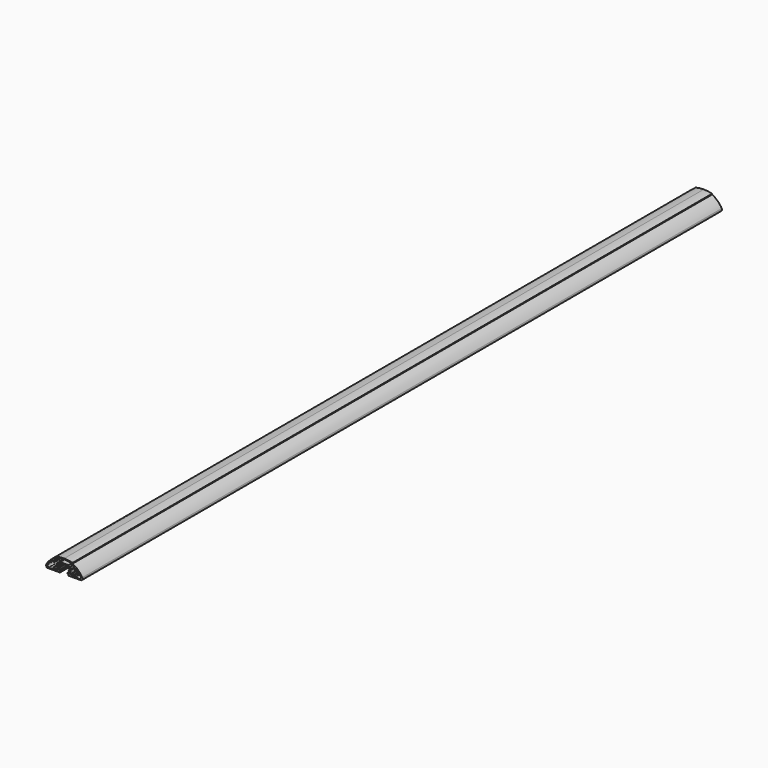
from build123d import *

# Parameters (mm, degrees)
F1_DEPTH = 1800


with BuildPart() as f1:
    # F0 (on Front) → F1 (new body)
    with BuildSketch(Plane.XZ):
        with BuildLine():
            Line((-11.9499590314, -0.9932657704), (-7.0635441756, -0.9932657704))
            Line((-7.0635441756, -0.9932657704), (-6.5061444542, 0.7506000693))
            Line((-6.5061444542, 0.7506000693), (-8.6929108068, 0.7506000693))
            Line((-8.6929108068, 0.7506000693), (-8.1542262873, 3.9006270817))
            Line((-8.1542262873, 3.9006270817), (0, 3.9006270817))
            Line((0, 3.9006270817), (0, 5.5371210328))
            Line((0, 5.5371210328), (-9.1837257915, 5.5371210328))
            Line((-9.1837257915, 5.5371210328), (-10.2753872215, 0.7506000693))
            Line((-10.2753872215, 0.7506000693), (-16.4274439918, 0.7506000693))
            Line((-16.4274439918, 0.7506000693), (-16.4274439918, -0.9932657704))
            Line((-16.4274439918, -0.9932657704), (-13.84259438, -0.9932657704))
            Line((-13.84259438, -0.9932657704), (-13.84259438, -6.8908426911))
            Line((-13.84259438, -6.8908426911), (-12.944600686, -6.8908426911))
            Line((-12.944600686, -6.8908426911), (-14.5703004673, -11.646294035))
            Line((-14.5703004673, -11.646294035), (-15.134039335, -11.646294035))
            Line((-15.134039335, -11.646294035), (-15.134039335, -9.3913376331))
            Line((-15.134039335, -9.3913376331), (-16.9987138361, -9.3913376331))
            Line((-16.9987138361, -9.3913376331), (-16.9987138361, -13.6410631239))
            Line((-16.9987138361, -13.6410631239), (-22.1590939909, -13.6410631239))
            Line((-22.1590939909, -13.6410631239), (-22.1590939909, -9.3913376331))
            Line((-22.1590939909, -9.3913376331), (-24.4574155658, -9.3913376331))
            Line((-24.4574155658, -9.3913376331), (-24.4574155658, -13.6410631239))
            Line((-24.4574155658, -13.6410631239), (-34.7348116338, -13.6410631239))
            ThreePointArc((-34.7348116338, -13.6410631239), (-37.092046473, -11.3274544107), (-37.1041148901, -8.0245472491))
            add(Edge.make_bspline(
                [(-37.1041148901, -8.0245472491), (-36.3946133782, -6.6936636739), (-34.5175154095, -3.9661265733), (-30.2363003623, 0.8604598858), (-27.2717215063, 3.4364306688), (-25.2775829285, 5.2396138199), (-24.8103346676, 5.583175458)],
                knots=[0, 0, 0, 0, 0.2581880021, 0.5557461622, 0.797961565, 1, 1, 1, 1], degree=3))
            Line((-24.8103346676, 5.583175458), (-24.8103346676, 1.2033570092))
            Line((-24.8103346676, 1.2033570092), (-22.1867793205, 1.2033570092))
            Line((-22.1867793205, 1.2033570092), (-22.1867793205, 7.1457230625))
            Line((-22.1867793205, 7.1457230625), (-16.8529403361, 7.1457230625))
            Line((-16.8529403361, 7.1457230625), (-16.8529403361, 11.3087186729))
            add(Edge.make_bspline(
                [(-16.8529403361, 11.3087186729), (-15.7352336494, 11.5777072863), (-13.5664877722, 12.0996402345), (-10.7072304288, 12.6865004894), (-6.1675118665, 13.1730848009), (-2.5798656461, 13.54062294), (-0.8032193119, 13.5784831385), (0, 13.5955996811)],
                knots=[0, 0, 0, 0, 0.1989990973, 0.3861285585, 0.6189174506, 0.8277131148, 1, 1, 1, 1], degree=3))
            Line((0, 13.5955996811), (0, 15.6303381391))
            add(Edge.make_bspline(
                [(-18.6959337443, 13.0852404982), (-17.6431082138, 13.3528213695), (-15.6442324786, 13.8616073537), (-13.1827009817, 14.3770899822), (-10.0425512675, 14.905789876), (-6.7898397517, 15.212769106), (-2.5280302821, 15.5487619808), (0, 15.6303381391)],
                knots=[0, 0, 0, 0, 0.1857541258, 0.3525756234, 0.535300912, 0.7245986336, 1, 1, 1, 1], degree=3))
            Line((-18.6959337443, 13.0852404982), (-18.6959337443, 11.3940229639))
            add(Edge.make_bspline(
                [(-40.4589027166, -8.972639218), (-39.7633750797, -7.4907291417), (-38.2954891834, -5.2058033416), (-35.6447834568, -1.7245334884), (-32.7285806644, 1.2799069532), (-28.9412679332, 4.9860764252), (-24.893657796, 8.1959871128), (-21.0035314245, 10.2828347597), (-19.3939634567, 11.1430983411), (-18.6959337443, 11.3940229639)],
                knots=[0, 0, 0, 0, 0.1452781638, 0.287479792, 0.4291306869, 0.5879725448, 0.7470424398, 0.8915837803, 1, 1, 1, 1], degree=3))
            ThreePointArc((-40.4589027166, -8.972639218), (-40.6863358268, -12.5794671522), (-38.3894363831, -15.3696618609))
            Line((-38.3894363831, -15.3696618609), (-9.648668257, -15.3696618609))
            Line((-9.648668257, -15.3696618609), (-9.648668257, -13.9649328778))
            Line((-9.648668257, -13.9649328778), (-7.4706089749, -12.8561026067))
            Line((-7.4706089749, -12.8561026067), (-7.4706089749, -10.2260625572))
            Line((-7.4706089749, -10.2260625572), (-10.3069271958, -11.6700064973))
            Line((-10.3069271958, -11.6700064973), (-11.7971690437, -11.6700064973))
            Line((-11.7971690437, -11.6700064973), (-11.7971690437, -10.2260625572))
            Line((-11.7971690437, -10.2260625572), (-9.9499590314, -5.1323893131))
            Line((-9.9499590314, -5.1323893131), (-11.9499590314, -5.1323893131))
            Line((-11.9499590314, -5.1323893131), (-11.9499590314, -0.9932657704))
        make_face()
    extrude(amount=F1_DEPTH)

    # F2: F1 across plane


with BuildPart() as f1_1:
    add(f1.part)
    add(f1.part.mirror(Plane.YZ))


solid = f1_1.part
